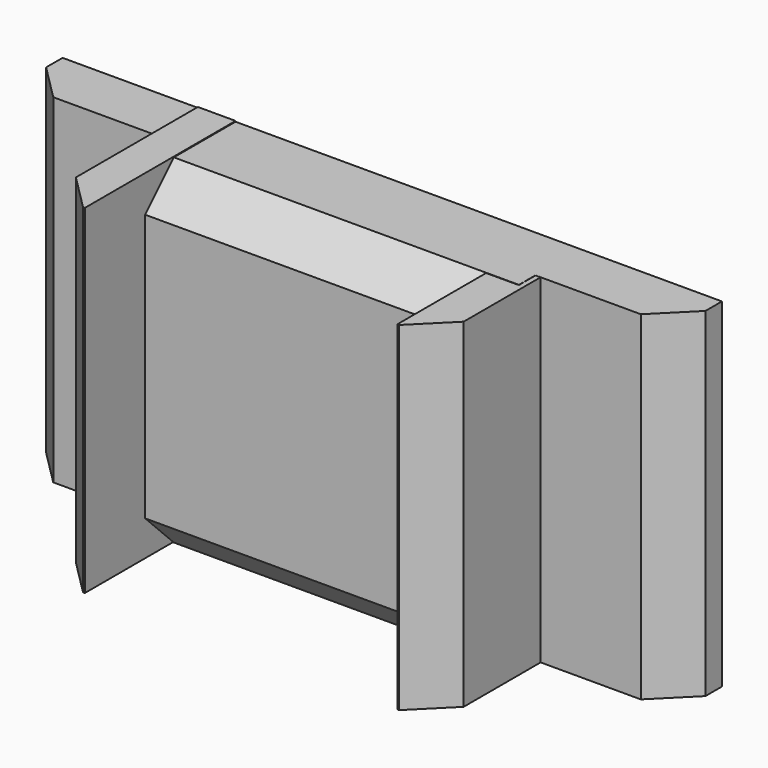
from build123d import *

# Parameters (mm, degrees)
F0_W     = 20
F0_H     = 18
F1_DEPTH = 6
F2_W     = 2
F2_H     = 18
F3_DEPTH = 10
F4_W     = 35
F4_H     = 18
F5_DEPTH = 3
F6_SIZE  = 1.905


with BuildPart() as f1:
    # F0 (on Front) → F1 (new body)
    with BuildSketch(Plane.XZ):
        Rectangle(F0_W, F0_H)
    extrude(amount=F1_DEPTH)

    # F2 (on Front) → F3 (join)
    with BuildSketch(Plane.XZ):
        with Locations((9.265766, -0.009242)):
            Rectangle(F2_W, F2_H)
        with Locations((-9.318016, 0.039604)):
            Rectangle(F2_W, F2_H)
    extrude(amount=F3_DEPTH)

    # F4 (on Front) → F5 (join)
    with BuildSketch(Plane.XZ):
        Rectangle(F4_W, F4_H)
    extrude(amount=F5_DEPTH)

    # F6
    f6_edges = [f1.edges().sort_by_distance(p)[0] for p in [
        (-17.5, -3, 0),
        (17.5, -3, 0),
        (10.265766, -10, -0.009242),
        (-10.318016, -10, 0.039604),
        (0.840992, -6, 9),
        (-0.867117, -6, -9),
    ]]
    chamfer(f6_edges, length=F6_SIZE)


solid = f1.part
